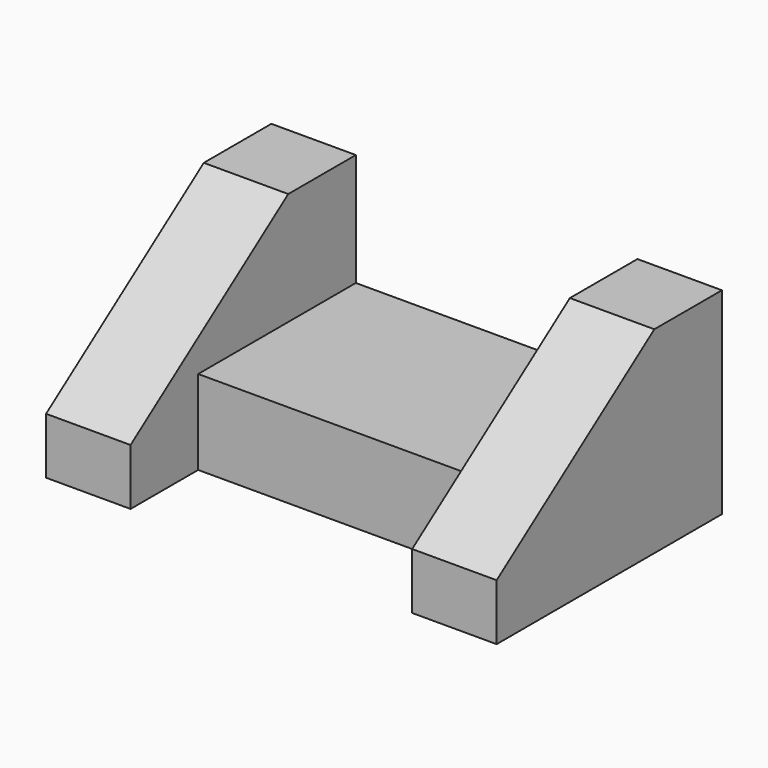
from build123d import *

# Parameters (mm, degrees)
F0_W     = 63.5
F0_H     = 44.45
F1_DEPTH = 19.05
F5_DEPTH = 19.05


with BuildPart() as f1:
    # F0 (on Top) → F1 (new body)
    with BuildSketch(Plane.XY):
        with Locations((4.306299, -2.139304)):
            Rectangle(F0_W, F0_H)
    extrude(amount=F1_DEPTH)

    # F6: F5 across plane


with BuildPart() as f5:
    # F3 (on offset) → F5 (new body)
    with BuildSketch(Plane.YZ.offset(36.068)):
        Polygon((-43.414304, 0), (20.085696, 0), (20.085696, 44.45), (1.035696, 44.45), (-43.414304, 12.7), align=None)
    extrude(amount=F5_DEPTH)


with BuildPart() as f1_1:
    add(f1.part)
    add(f5.part.mirror(Plane.YZ.offset(4.318)))


solid = Compound([f5.part, f1_1.part])
